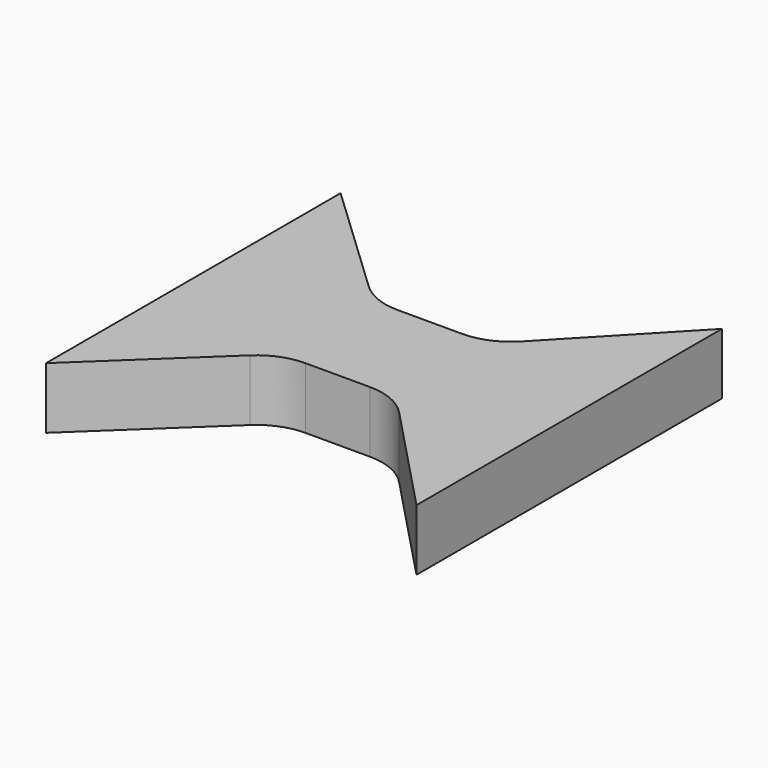
from build123d import *

# Parameters (mm, degrees)
F0_W     = 9.387408
F0_H     = 9.387408
F1_DEPTH = 5
F2_R     = 5


with BuildPart() as f1:
    # F0 (on Top) → F1 (new body)
    with BuildSketch(Plane.XY):
        with Locations((-15.037382, 8.852049)):
            Rectangle(F0_W, F0_H)
        Polygon((-19.731086, 4.158345), (-19.731086, 13.545753), (-30.629722, 23.852049), (-30.629722, -6.147951), align=None)
        Polygon((0, 24.408917), (-10.343678, 13.545753), (-10.343678, 4.158345), (0, -6.70482), (0, 23.616456), align=None)
    extrude(amount=F1_DEPTH)

    # F2
    f2_edges = [f1.edges().sort_by_distance(p)[0] for p in [
        (-10.343678, 4.158345, 2.5),
        (-19.731086, 4.158345, 2.5),
        (-10.343678, 13.545753, 2.5),
        (-19.731086, 13.545753, 2.5),
    ]]
    fillet(f2_edges, radius=F2_R)


solid = f1.part
